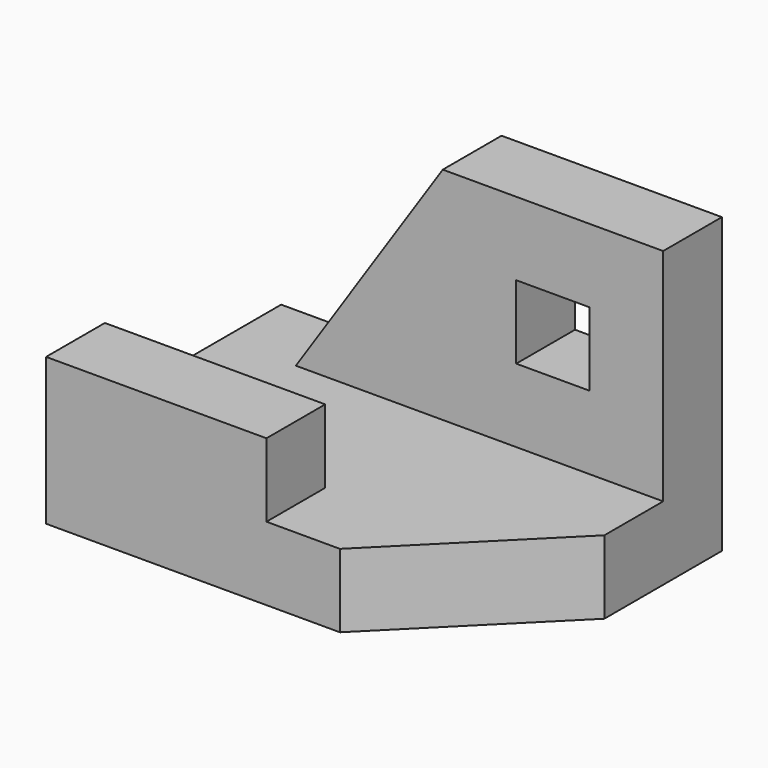
from build123d import *

# Parameters (mm, degrees)
F1_DEPTH = 10
F2_W     = 30
F2_H     = 10
F3_DEPTH = 10
F5_DEPTH = 10
F6_W     = 10
F6_H     = 10
F7_DEPTH = 10.001


with BuildPart() as f1:
    # F0 (on Top) → F1 (new body)
    with BuildSketch(Plane.XY):
        Polygon((0, 40), (0, 0), (40, 0), (60, 20), (60, 40), align=None)
    extrude(amount=F1_DEPTH)

    # F2 (on face) → F3 (join)
    with BuildSketch(Plane.XZ):
        with Locations((15, 15)):
            Rectangle(F2_W, F2_H)
    extrude(amount=-F3_DEPTH)

    # F4 (on face) → F5 (join)
    with BuildSketch(Plane(origin=(0, 40, 0), x_dir=(-1, 0, 0), z_dir=(0, 1, 0))):
        Polygon((-60, 40), (-60, 10), (-10, 10), (-30, 40), align=None)
    extrude(amount=-F5_DEPTH)

    # F6 (on face) → F7 (cut, through all)
    with BuildSketch(Plane.XZ.offset(-30)):
        with Locations((45, 25)):
            Rectangle(F6_W, F6_H)
    extrude(amount=-F7_DEPTH, mode=Mode.SUBTRACT)


solid = f1.part
